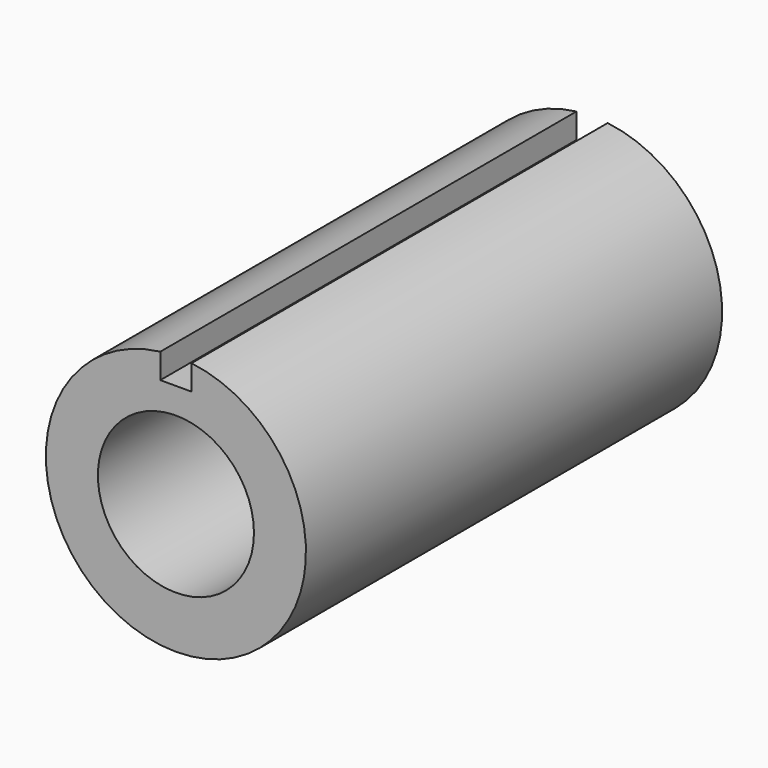
from build123d import *

# Parameters (mm, degrees)
F0_R          = 63.5
F0_R_2        = 38.1
F1_DEPTH      = 127
F1_DEPTH_BACK = 127
F2_W          = 15.243814
F2_H          = 25.401894
F3_DEPTH      = 254.001


with BuildPart() as f1:
    # F0 (on Front) → F1 (new body, two sides)
    with BuildSketch(Plane.XZ) as f1_sk:
        Circle(F0_R)
        Circle(F0_R_2, mode=Mode.SUBTRACT)
    extrude(amount=F1_DEPTH)
    extrude(f1_sk.sketch, amount=-F1_DEPTH_BACK)

    # F2 (on face) → F3 (cut, through all)
    with BuildSketch(Plane.XZ.offset(127)):
        with Locations((0, 63.5)):
            Rectangle(F2_W, F2_H)
    extrude(amount=-F3_DEPTH, mode=Mode.SUBTRACT)


solid = f1.part
